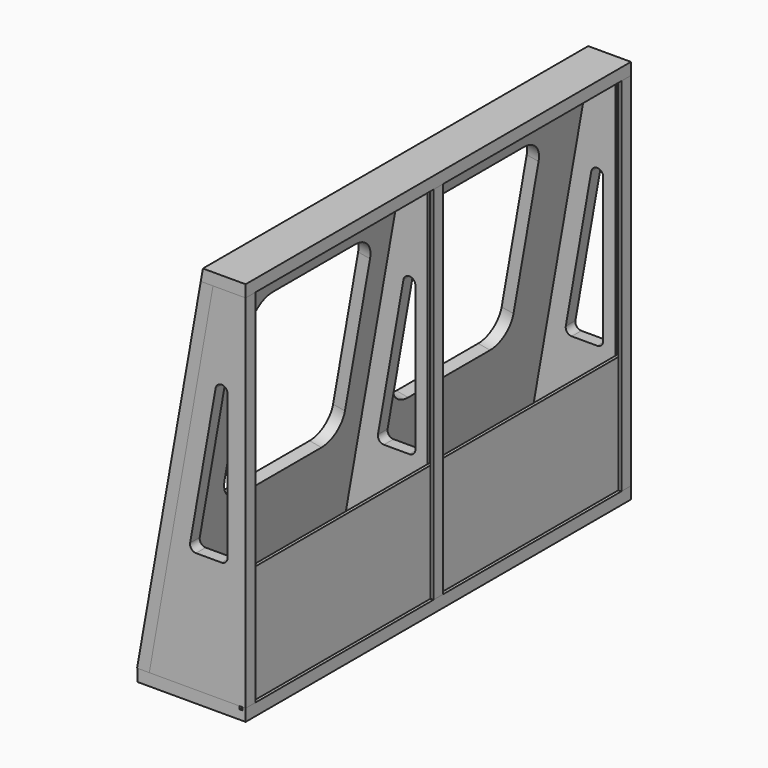
from build123d import *

# Parameters (mm, degrees)
F1_DEPTH  = 12.7
F2_W      = 114.3
F2_H      = 12.7
F3_DEPTH  = 508
F5_DEPTH  = 12.7
F7_DEPTH  = 508
F9_DEPTH  = 508
F10_W     = 3.175
F10_H     = 381
F11_DEPTH = 3.175
F12_W     = 3.175
F12_H     = 381
F13_DEPTH = 3.175
F16_DEPTH = 6.35
F17_W     = 3.175
F17_H     = 381
F18_DEPTH = 3.175
F19_W     = 3.175
F19_H     = 381
F20_DEPTH = 3.175
F22_DEPTH = 3.175
F23_W     = 3.175
F23_H     = 241.3
F24_DEPTH = 127
F26_DEPTH = 508.001
F28_DEPTH = 81.0662875475


with BuildPart() as f1:
    # F0 (on Front) → F1 (new body)
    with BuildSketch(Plane.XZ):
        Polygon((67.1805796499, 381), (0, 0), (101.6, 0), (101.6, 381), align=None)
    extrude(amount=-F1_DEPTH)

    # F10 (on face) → F11 (cut)
    with BuildSketch(Plane(origin=(0, 12.7, 0), x_dir=(-1, 0, 0), z_dir=(0, 1, 0))):
        with Locations((-96.8375, 190.5)):
            Rectangle(F10_W, F10_H)
    extrude(amount=-F11_DEPTH, mode=Mode.SUBTRACT)


with BuildPart() as f3:
    # F2 (on face) → F3 (new body)
    with BuildSketch(Plane.XZ):
        with Locations((44.45, -6.35)):
            Rectangle(F2_W, F2_H)
    extrude(amount=-F3_DEPTH)

    # F21 (on face) → F22 (cut)
    with BuildSketch(Plane.XY):
        Polygon((95.25, 508), (95.25, 498.475), (95.25, 9.525), (95.25, 0), (98.425, 0), (98.425, 9.525), (98.425, 498.475), (98.425, 508), align=None)
    extrude(amount=-F22_DEPTH, mode=Mode.SUBTRACT)


with BuildPart() as f5:
    # F4 (on face) → F5 (new body)
    with BuildSketch(Plane(origin=(0, 508, 0), x_dir=(-1, 0, 0), z_dir=(0, 1, 0))):
        Polygon((0, 0), (-67.1805796499, 381), (-101.6, 381), (-101.6, 0), align=None)
    extrude(amount=-F5_DEPTH)

    # F12 (on face) → F13 (cut)
    with BuildSketch(Plane.XZ.offset(-495.3)):
        with Locations((96.8375, 190.5)):
            Rectangle(F12_W, F12_H)
    extrude(amount=-F13_DEPTH, mode=Mode.SUBTRACT)


with BuildPart() as f7:
    # F6 (on face) → F7 (new body, through all)
    with BuildSketch(Plane.XZ):
        Polygon((0, 0), (67.1805796499, 381), (54.284661679, 381), (-12.8959179709, 0), align=None)
    extrude(amount=-F7_DEPTH)

    # F27 (on face) → F28 (cut, through all)
    with BuildSketch(Plane(origin=(0, 0, 0), x_dir=(0, 1, 0), z_dir=(0.984807753, 0, -0.1736481777))):
        with BuildLine():
            Line((196.85, 342.0544087486), (88.9, 342.0544087486))
            ThreePointArc((88.9, 342.0544087486), (70.9394877579, 334.6149209907), (63.5, 316.6544087486))
            Line((63.5, 316.6544087486), (63.5, 164.4351419036))
            ThreePointArc((63.5, 164.4351419036), (70.9394877579, 146.4746296615), (88.9, 139.0351419036))
            Line((88.9, 139.0351419036), (196.85, 139.0351419036))
            ThreePointArc((196.85, 139.0351419036), (214.8105122421, 146.4746296615), (222.25, 164.4351419036))
            Line((222.25, 164.4351419036), (222.25, 316.6544087486))
            ThreePointArc((222.25, 316.6544087486), (214.8105122421, 334.6149209907), (196.85, 342.0544087486))
        make_face()
        with BuildLine():
            ThreePointArc((311.15, 342.0544087486), (293.1894877579, 334.6149209907), (285.75, 316.6544087486))
            Line((285.75, 316.6544087486), (285.75, 164.4351419036))
            ThreePointArc((285.75, 164.4351419036), (293.1894877579, 146.4746296615), (311.15, 139.0351419036))
            Line((311.15, 139.0351419036), (419.1, 139.0351419036))
            ThreePointArc((419.1, 139.0351419036), (437.0605122421, 146.4746296615), (444.5, 164.4351419036))
            Line((444.5, 164.4351419036), (444.5, 316.6544087486))
            ThreePointArc((444.5, 316.6544087486), (437.0605122421, 334.6149209907), (419.1, 342.0544087486))
            Line((419.1, 342.0544087486), (311.15, 342.0544087486))
        make_face()
    extrude(amount=-F28_DEPTH, mode=Mode.SUBTRACT)


with BuildPart() as f9:
    # F8 (on face) → F9 (new body, through all)
    with BuildSketch(Plane(origin=(0, 508, 0), x_dir=(-1, 0, 0), z_dir=(0, 1, 0))):
        Polygon((-101.6, 393.7), (-101.6, 381), (-54.284661679, 381), (-56.524014334, 393.7), align=None)
    extrude(amount=-F9_DEPTH)


with BuildPart() as f16:
    # F15 (on mid) → F16 (new body, symmetric)
    with BuildSketch(Plane.XZ.offset(-254)):
        Polygon((67.1805796499, 381), (0, 0), (101.6, 0), (101.6, 381), align=None)
        with BuildLine():
            ThreePointArc((49.3050388194, 127), (44.4406566056, 129.2682986785), (43.0515095877, 134.4526659282))
            Line((43.0515095877, 134.4526659282), (69.9464707684, 286.9815703112))
            ThreePointArc((69.9464707684, 286.9815703112), (76.7534389664, 292.2047407159), (82.55, 285.878904383))
            Line((82.55, 285.878904383), (82.55, 133.35))
            ThreePointArc((82.55, 133.35), (80.6901280605, 128.8598719395), (76.2, 127))
            Line((76.2, 127), (49.3050388194, 127))
        make_face(mode=Mode.SUBTRACT)
    extrude(amount=F16_DEPTH, both=True)

    # F17 (on face) → F18 (cut)
    with BuildSketch(Plane.XZ.offset(-247.65)):
        with Locations((96.8375, 190.5)):
            Rectangle(F17_W, F17_H)
    extrude(amount=-F18_DEPTH, mode=Mode.SUBTRACT)

    # F19 (on face) → F20 (cut)
    with BuildSketch(Plane(origin=(0, 260.35, 0), x_dir=(-1, 0, 0), z_dir=(0, 1, 0))):
        with Locations((-96.8375, 190.5)):
            Rectangle(F19_W, F19_H)
    extrude(amount=-F20_DEPTH, mode=Mode.SUBTRACT)


with BuildPart() as f24:
    # F23 (on face) → F24 (new body)
    with BuildSketch(Plane.XY.offset(-3.175)):
        with Locations((96.8375, 377.825)):
            Rectangle(F23_W, F23_H)
    extrude(amount=F24_DEPTH)


with BuildPart() as f24b:
    # F23 (on face) → F24, piece 2 (new body)
    with BuildSketch(Plane.XY.offset(-3.175)):
        with Locations((96.8375, 130.175)):
            Rectangle(F23_W, F23_H)
    extrude(amount=F24_DEPTH)


with BuildPart() as f26_tool:
    # F25 (on face) → F26 (new body, through all)
    with BuildSketch(Plane.XZ):
        with BuildLine():
            Line((69.9464707684, 286.9815703112), (43.0515095877, 134.4526659282))
            ThreePointArc((43.0515095877, 134.4526659282), (44.4406566056, 129.2682986785), (49.3050388194, 127))
            Line((49.3050388194, 127), (76.2, 127))
            ThreePointArc((76.2, 127), (80.6901280605, 128.8598719395), (82.55, 133.35))
            Line((82.55, 133.35), (82.55, 285.878904383))
            ThreePointArc((82.55, 285.878904383), (76.7534389664, 292.2047407159), (69.9464707684, 286.9815703112))
        make_face()
    extrude(amount=-F26_DEPTH)


with BuildPart() as f1_1:
    add(f1.part)

    # F26: cut by f26_tool
    add(f26_tool.part, mode=Mode.SUBTRACT)


with BuildPart() as f5_1:
    add(f5.part)

    # F26: cut by f26_tool
    add(f26_tool.part, mode=Mode.SUBTRACT)


solid = Compound([f3.part, f7.part, f9.part, f16.part, f24.part, f24b.part, f1_1.part, f5_1.part])
